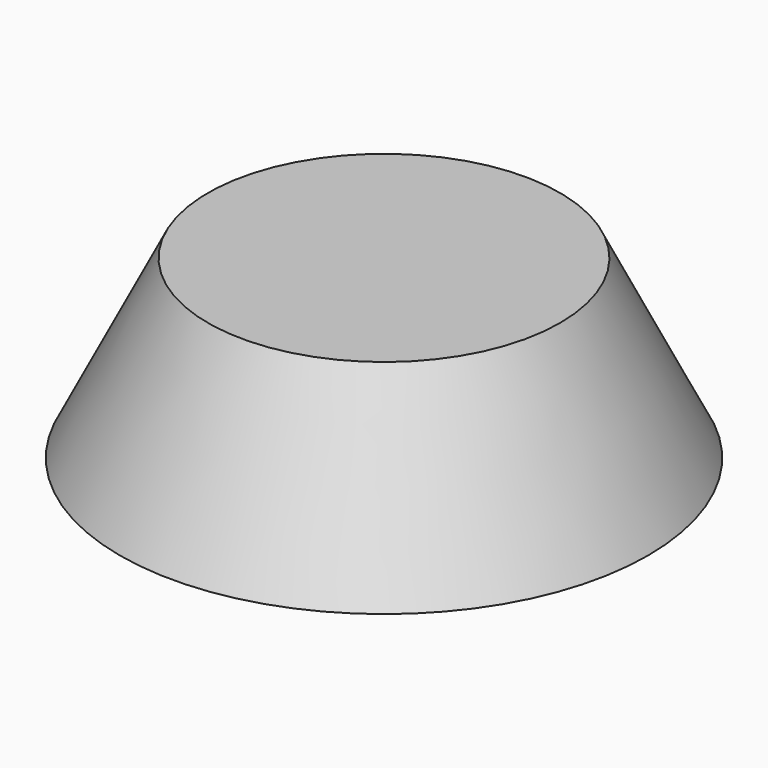
from build123d import *

# Parameters (mm, degrees)
SKETCH_R    = 30
SKETCH001_R = 20


with BuildPart() as part:
    # Sketch → Loft section 0
    with BuildSketch(Plane.XY):
        Circle(SKETCH_R)
    # Sketch001 → Loft section 1
    with BuildSketch(Plane.XY.offset(20)):
        Circle(SKETCH001_R)
    loft()


solid = part.part
